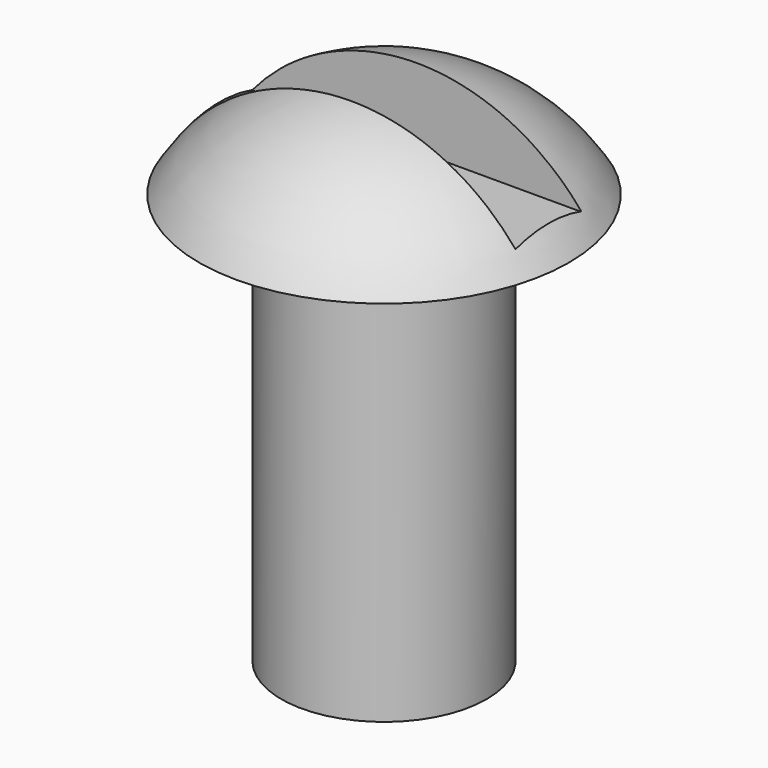
from build123d import *

# Parameters (mm, degrees)
F2_W     = 2.54
F2_H     = 2.54
F3_DEPTH = 5.08


with BuildPart() as f1:
    # F0 (on Front) → F1 (revolve)
    with BuildSketch(Plane.XZ):
        with BuildLine():
            Line((0, 12.7), (0, 0))
            Line((0, 0), (3.175, 0))
            Line((3.175, 0), (3.175, 12.7))
            Line((3.175, 12.7), (5.715, 12.7))
            ThreePointArc((5.715, 12.7), (3.268863, 15.027953), (0, 15.875))
            Line((0, 15.875), (0, 12.7))
        make_face()
    revolve(axis=Axis((0, 0, 6.35), (0, 0, 1)))

    # F2 (on Right) → F3 (cut, symmetric)
    with BuildSketch(Plane.YZ):
        with Locations((0, 14.629337)):
            Rectangle(F2_W, F2_H)
    extrude(amount=F3_DEPTH, both=True, mode=Mode.SUBTRACT)


solid = f1.part
